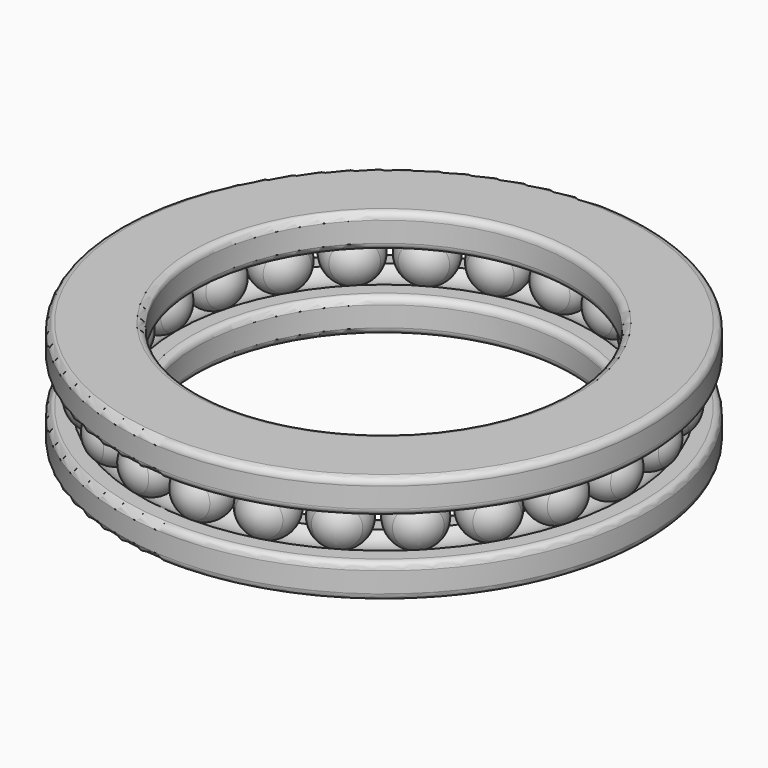
from build123d import *

# Parameters (mm, degrees)
F3_COUNT = 24
F4_R     = 1
F4_2_R   = 1


with BuildPart() as f1:
    # F0 (on Front) → F1 (revolve)
    with BuildSketch(Plane.XZ):
        with BuildLine():
            Line((-39, 3), (-35.8957513111, 3))
            ThreePointArc((-35.8957513111, 3), (-33.25, 4), (-30.6042486889, 3))
            Line((-30.6042486889, 3), (-27.5, 3))
            Line((-27.5, 3), (-27.5, 8))
            Line((-27.5, 8), (-39, 8))
            Line((-39, 8), (-39, 3))
        make_face()
    revolve(axis=Axis((0, 0, 0), (0, 0, -1)))

    # F4
    f4_edges = [f1.edges().sort_by_distance(p)[0] for p in [
        (39, 0, 8),
        (39, 0, 3),
        (27.5, 0, 3),
        (27.5, 0, 8),
    ]]
    fillet(f4_edges, radius=F4_R)


with BuildPart() as f1b:
    # F0 (on Front) → F1, piece 2 (revolve)
    with BuildSketch(Plane.XZ):
        with BuildLine():
            Line((-39, -3), (-39, -8))
            Line((-39, -8), (-27.5, -8))
            Line((-27.5, -8), (-27.5, -3))
            Line((-27.5, -3), (-30.6042486889, -3))
            ThreePointArc((-30.6042486889, -3), (-33.25, -4), (-35.8957513111, -3))
            Line((-35.8957513111, -3), (-39, -3))
        make_face()
    revolve(axis=Axis((0, 0, 0), (0, 0, -1)))

    # F4#2
    f4_2_edges = [f1b.edges().sort_by_distance(p)[0] for p in [
        (39, 0, -8),
        (39, 0, -3),
        (27.5, 0, -8),
        (27.5, 0, -3),
    ]]
    fillet(f4_2_edges, radius=F4_2_R)


with BuildPart() as f2:
    # F0 (on Front) → F2 (revolve)
    with BuildSketch(Plane.XZ):
        with BuildLine():
            ThreePointArc((-37.25, 0), (-36.8957513111, -1.6457513111), (-35.8957513111, -3))
            ThreePointArc((-35.8957513111, -3), (-33.25, -4), (-30.6042486889, -3))
            ThreePointArc((-30.6042486889, -3), (-29.6042486889, -1.6457513111), (-29.25, 0))
            Line((-29.25, 0), (-37.25, 0))
        make_face()
    revolve(axis=Axis((-33.25, 0, 0), (1, 0, 0)))


with BuildPart() as f3_1:
    # F3: instance of F2
    add(f2.part.rotate(Axis((0, 0, 0), (0, 0, -1)), 1 * 360 / F3_COUNT))


with BuildPart() as f3_2:
    # F3: instance of F2
    add(f2.part.rotate(Axis((0, 0, 0), (0, 0, -1)), 2 * 360 / F3_COUNT))


with BuildPart() as f3_3:
    # F3: instance of F2
    add(f2.part.rotate(Axis((0, 0, 0), (0, 0, -1)), 3 * 360 / F3_COUNT))


with BuildPart() as f3_4:
    # F3: instance of F2
    add(f2.part.rotate(Axis((0, 0, 0), (0, 0, -1)), 4 * 360 / F3_COUNT))


with BuildPart() as f3_5:
    # F3: instance of F2
    add(f2.part.rotate(Axis((0, 0, 0), (0, 0, -1)), 5 * 360 / F3_COUNT))


with BuildPart() as f3_6:
    # F3: instance of F2
    add(f2.part.rotate(Axis((0, 0, 0), (0, 0, -1)), 6 * 360 / F3_COUNT))


with BuildPart() as f3_7:
    # F3: instance of F2
    add(f2.part.rotate(Axis((0, 0, 0), (0, 0, -1)), 7 * 360 / F3_COUNT))


with BuildPart() as f3_8:
    # F3: instance of F2
    add(f2.part.rotate(Axis((0, 0, 0), (0, 0, -1)), 8 * 360 / F3_COUNT))


with BuildPart() as f3_9:
    # F3: instance of F2
    add(f2.part.rotate(Axis((0, 0, 0), (0, 0, -1)), 9 * 360 / F3_COUNT))


with BuildPart() as f3_10:
    # F3: instance of F2
    add(f2.part.rotate(Axis((0, 0, 0), (0, 0, -1)), 10 * 360 / F3_COUNT))


with BuildPart() as f3_11:
    # F3: instance of F2
    add(f2.part.rotate(Axis((0, 0, 0), (0, 0, -1)), 11 * 360 / F3_COUNT))


with BuildPart() as f3_12:
    # F3: instance of F2
    add(f2.part.rotate(Axis((0, 0, 0), (0, 0, -1)), 12 * 360 / F3_COUNT))


with BuildPart() as f3_13:
    # F3: instance of F2
    add(f2.part.rotate(Axis((0, 0, 0), (0, 0, -1)), 13 * 360 / F3_COUNT))


with BuildPart() as f3_14:
    # F3: instance of F2
    add(f2.part.rotate(Axis((0, 0, 0), (0, 0, -1)), 14 * 360 / F3_COUNT))


with BuildPart() as f3_15:
    # F3: instance of F2
    add(f2.part.rotate(Axis((0, 0, 0), (0, 0, -1)), 15 * 360 / F3_COUNT))


with BuildPart() as f3_16:
    # F3: instance of F2
    add(f2.part.rotate(Axis((0, 0, 0), (0, 0, -1)), 16 * 360 / F3_COUNT))


with BuildPart() as f3_17:
    # F3: instance of F2
    add(f2.part.rotate(Axis((0, 0, 0), (0, 0, -1)), 17 * 360 / F3_COUNT))


with BuildPart() as f3_18:
    # F3: instance of F2
    add(f2.part.rotate(Axis((0, 0, 0), (0, 0, -1)), 18 * 360 / F3_COUNT))


with BuildPart() as f3_19:
    # F3: instance of F2
    add(f2.part.rotate(Axis((0, 0, 0), (0, 0, -1)), 19 * 360 / F3_COUNT))


with BuildPart() as f3_20:
    # F3: instance of F2
    add(f2.part.rotate(Axis((0, 0, 0), (0, 0, -1)), 20 * 360 / F3_COUNT))


with BuildPart() as f3_21:
    # F3: instance of F2
    add(f2.part.rotate(Axis((0, 0, 0), (0, 0, -1)), 21 * 360 / F3_COUNT))


with BuildPart() as f3_22:
    # F3: instance of F2
    add(f2.part.rotate(Axis((0, 0, 0), (0, 0, -1)), 22 * 360 / F3_COUNT))


with BuildPart() as f3_23:
    # F3: instance of F2
    add(f2.part.rotate(Axis((0, 0, 0), (0, 0, -1)), 23 * 360 / F3_COUNT))


solid = Compound([f1.part, f1b.part, f2.part, f3_1.part, f3_2.part, f3_3.part, f3_4.part, f3_5.part, f3_6.part, f3_7.part, f3_8.part, f3_9.part, f3_10.part, f3_11.part, f3_12.part, f3_13.part, f3_14.part, f3_15.part, f3_16.part, f3_17.part, f3_18.part, f3_19.part, f3_20.part, f3_21.part, f3_22.part, f3_23.part])
